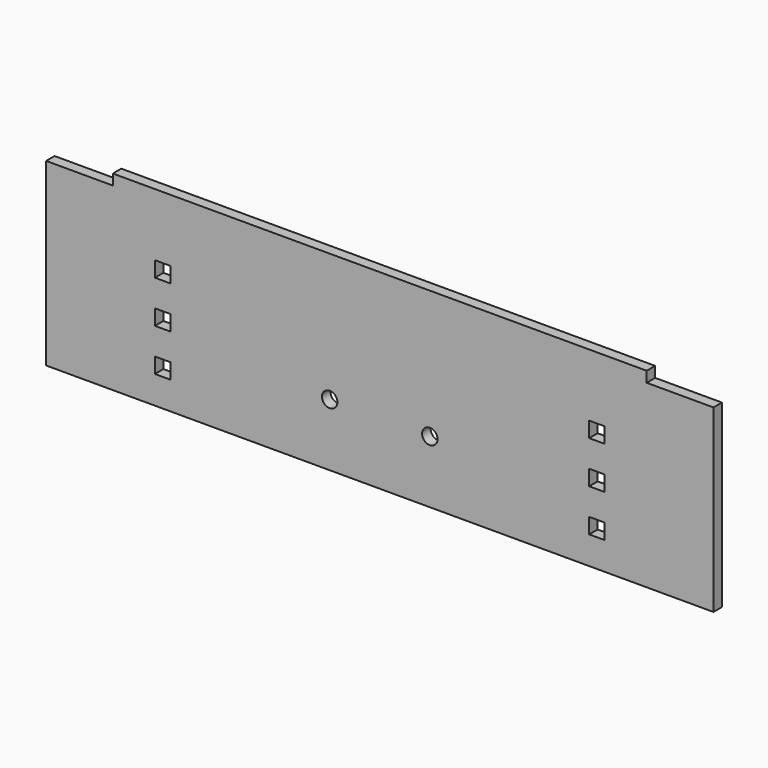
from build123d import *

# Parameters (mm, degrees)
F0_W     = 4.6228
F0_H     = 4.6228
F0_R     = 2.3114
F1_DEPTH = 3.175


with BuildPart() as f1:
    # F0 (on Front) → F1 (new body)
    with BuildSketch(Plane.XZ):
        with BuildLine():
            ThreePointArc((17.3114, -8.3125), (15, -6.0011), (12.6886, -8.3125))
            ThreePointArc((12.6886, -8.3125), (15, -10.6239), (17.3114, -8.3125))
        make_face()
        Polygon((100, -26.9875), (100, 26.9875), (80, 26.9875), (80, 30.1625), (0, 30.1625), (0, -8.3125), (0, -26.9875), align=None)
        with Locations((65.075, -16.3125)):
            Rectangle(F0_W, F0_H, mode=Mode.SUBTRACT)
        with BuildLine():
            ThreePointArc((17.3114, -8.3125), (15, -10.6239), (12.6886, -8.3125))
            ThreePointArc((12.6886, -8.3125), (15, -6.0011), (17.3114, -8.3125))
        make_face(mode=Mode.SUBTRACT)
        with Locations((65.075, -3.6125)):
            Rectangle(F0_W, F0_H, mode=Mode.SUBTRACT)
        with Locations((65.075, 9.0875)):
            Rectangle(F0_W, F0_H, mode=Mode.SUBTRACT)
        Polygon((-65.075, -26.9875), (0, -26.9875), (0, -8.3125), (0, 30.1625), (-80, 30.1625), (-80, 26.9875), (-100, 26.9875), (-100, -26.9875), align=None)
        with Locations((-65.075, -16.3125)):
            Rectangle(F0_W, F0_H, mode=Mode.SUBTRACT)
        with Locations((-65.075, -3.6125)):
            Rectangle(F0_W, F0_H, mode=Mode.SUBTRACT)
        with Locations((-15, -8.3125)):
            Circle(F0_R, mode=Mode.SUBTRACT)
        with Locations((-65.075, 9.0875)):
            Rectangle(F0_W, F0_H, mode=Mode.SUBTRACT)
    extrude(amount=F1_DEPTH)


solid = f1.part
